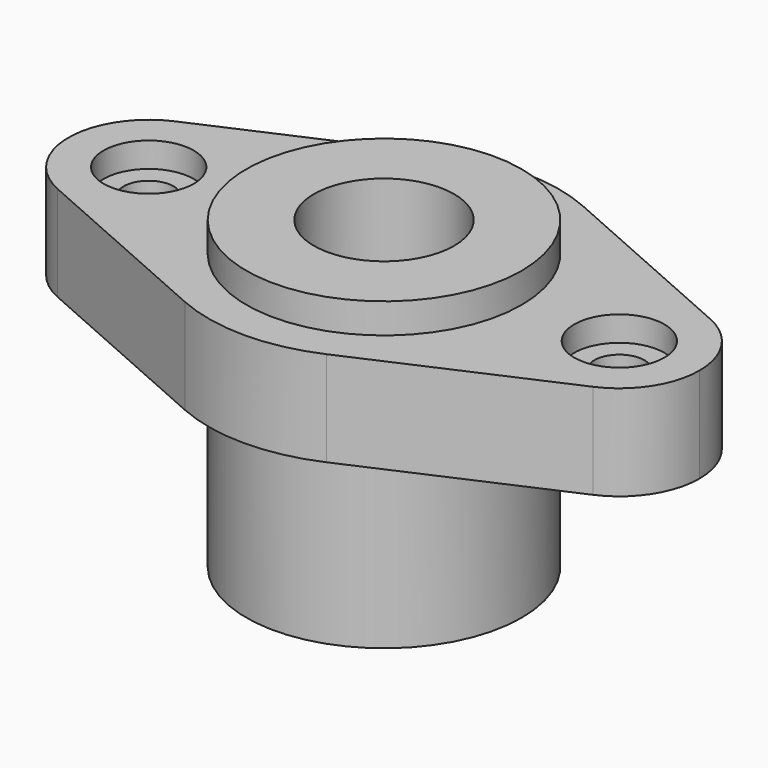
from build123d import *

# Parameters (mm, degrees)
F0_R     = 27.5
F0_R_2   = 14
F1_DEPTH = 19
F2_DEPTH = 6
F3_R     = 27.5
F3_R_2   = 14
F4_DEPTH = 36
F5_R     = 5
F6_DEPTH = 25
F7_R     = 9
F8_DEPTH = 5


with BuildPart() as f1:
    # F0 (on Top) → F1 (new body)
    with BuildSketch(Plane.XY):
        with BuildLine():
            ThreePointArc((-33.8085106383, -9.0545352404), (-35, 0), (-33.8085106383, 9.0545352404))
            ThreePointArc((-33.8085106383, 9.0545352404), (-42.6314083028, 15.3920566067), (-53.4680851064, 14.6343389006))
            ThreePointArc((-53.4680851064, 14.6343389006), (-63, 0), (-53.4680851064, -14.6343389006))
            ThreePointArc((-53.4680851064, -14.6343389006), (-42.6314083028, -15.3920566067), (-33.8085106383, -9.0545352404))
        make_face()
        with BuildLine():
            ThreePointArc((-33.8085106383, 9.0545352404), (-26.5847239613, 22.7651587278), (-14.1489361702, 32.012616345))
            Line((-14.1489361702, 32.012616345), (-53.4680851064, 14.6343389006))
            ThreePointArc((-53.4680851064, 14.6343389006), (-42.6314083028, 15.3920566067), (-33.8085106383, 9.0545352404))
        make_face()
        with BuildLine():
            ThreePointArc((-31, 0), (-31.7182489585, 4.7400511713), (-33.8085106383, 9.0545352404))
            ThreePointArc((-33.8085106383, 9.0545352404), (-35, 0), (-33.8085106383, -9.0545352404))
            ThreePointArc((-33.8085106383, -9.0545352404), (-31.7182489585, -4.7400511713), (-31, 0))
        make_face()
        with BuildLine():
            ThreePointArc((33.8085106383, 9.0545352404), (26.5847239613, 22.7651587278), (14.1489361702, 32.012616345))
            ThreePointArc((14.1489361702, 32.012616345), (0, 35), (-14.1489361702, 32.012616345))
            ThreePointArc((-14.1489361702, 32.012616345), (-26.5847239613, 22.7651587278), (-33.8085106383, 9.0545352404))
            ThreePointArc((-33.8085106383, 9.0545352404), (-31.7182489585, 4.7400511713), (-31, 0))
            ThreePointArc((-31, 0), (-31.7182489585, -4.7400511713), (-33.8085106383, -9.0545352404))
            ThreePointArc((-33.8085106383, -9.0545352404), (-26.5847239613, -22.7651587278), (-14.1489361702, -32.012616345))
            ThreePointArc((-14.1489361702, -32.012616345), (0, -35), (14.1489361702, -32.012616345))
            ThreePointArc((14.1489361702, -32.012616345), (26.5847239613, -22.7651587278), (33.8085106383, -9.0545352404))
            ThreePointArc((33.8085106383, -9.0545352404), (31, 0), (33.8085106383, 9.0545352404))
        make_face()
        Circle(F0_R, mode=Mode.SUBTRACT)
        with BuildLine():
            ThreePointArc((-14.1489361702, -32.012616345), (-26.5847239613, -22.7651587278), (-33.8085106383, -9.0545352404))
            ThreePointArc((-33.8085106383, -9.0545352404), (-42.6314083028, -15.3920566067), (-53.4680851064, -14.6343389006))
            Line((-53.4680851064, -14.6343389006), (-14.1489361702, -32.012616345))
        make_face()
        Circle(F0_R)
        Circle(F0_R_2, mode=Mode.SUBTRACT)
        with BuildLine():
            ThreePointArc((53.4680851064, 14.6343389006), (42.6314083028, 15.3920566067), (33.8085106383, 9.0545352404))
            ThreePointArc((33.8085106383, 9.0545352404), (34.700849214, 4.5662965114), (35, 0))
            ThreePointArc((35, 0), (34.700849214, -4.5662965114), (33.8085106383, -9.0545352404))
            ThreePointArc((33.8085106383, -9.0545352404), (42.6314083028, -15.3920566067), (53.4680851064, -14.6343389006))
            ThreePointArc((53.4680851064, -14.6343389006), (60.4068893055, -8.7324291666), (63, 0))
            ThreePointArc((63, 0), (60.4068893055, 8.7324291666), (53.4680851064, 14.6343389006))
        make_face()
        with BuildLine():
            ThreePointArc((35, 0), (34.700849214, 4.5662965114), (33.8085106383, 9.0545352404))
            ThreePointArc((33.8085106383, 9.0545352404), (31, 0), (33.8085106383, -9.0545352404))
            ThreePointArc((33.8085106383, -9.0545352404), (34.700849214, -4.5662965114), (35, 0))
        make_face()
        with BuildLine():
            Line((53.4680851064, 14.6343389006), (14.1489361702, 32.012616345))
            ThreePointArc((14.1489361702, 32.012616345), (26.5847239613, 22.7651587278), (33.8085106383, 9.0545352404))
            ThreePointArc((33.8085106383, 9.0545352404), (42.6314083028, 15.3920566067), (53.4680851064, 14.6343389006))
        make_face()
        with BuildLine():
            ThreePointArc((53.4680851064, -14.6343389006), (42.6314083028, -15.3920566067), (33.8085106383, -9.0545352404))
            ThreePointArc((33.8085106383, -9.0545352404), (26.5847239613, -22.7651587278), (14.1489361702, -32.012616345))
            Line((14.1489361702, -32.012616345), (53.4680851064, -14.6343389006))
        make_face()
    extrude(amount=-F1_DEPTH)

    # F0 (on Top) → F2 (join)
    with BuildSketch(Plane.XY):
        Circle(F0_R)
        Circle(F0_R_2, mode=Mode.SUBTRACT)
    extrude(amount=F2_DEPTH)

    # F3 (on face) → F4 (join)
    with BuildSketch(Plane(origin=(0, 0, -19), x_dir=(1, 0, 0), z_dir=(0, 0, -1))):
        Circle(F3_R)
        Circle(F3_R_2, mode=Mode.SUBTRACT)
    extrude(amount=F4_DEPTH)

    # F5 (on face) → F6 (cut)
    with BuildSketch(Plane.XY):
        with Locations((-47, 0)):
            Circle(F5_R)
        with Locations((47, 0)):
            Circle(F5_R)
    extrude(amount=-F6_DEPTH, mode=Mode.SUBTRACT)

    # F7 (on face) → F8 (cut)
    with BuildSketch(Plane.XY):
        with Locations((-47, 0)):
            Circle(F7_R)
        with Locations((47, 0)):
            Circle(F7_R)
    extrude(amount=-F8_DEPTH, mode=Mode.SUBTRACT)


solid = f1.part
